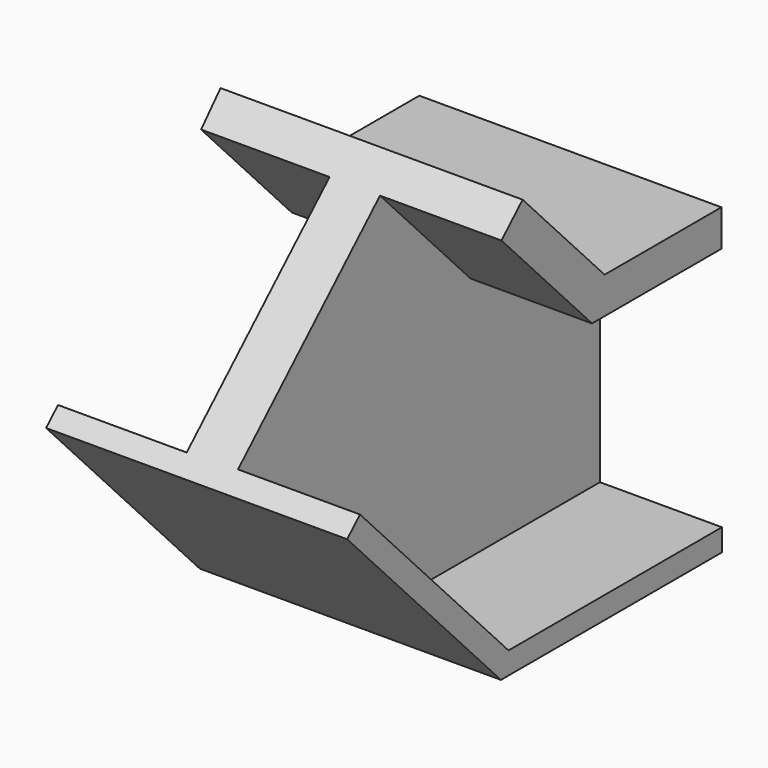
from build123d import *


with BuildPart() as f2:
    # F2: sweep along a path in F1
    with BuildLine(Plane.YZ) as f2_path:
        Line((0, 0), (-105.3527295589, 0))
        Line((-105.3527295589, 0), (-178.8869053125, 77.2800818086))
    # F0 (on Front) → F2 (sweep)
    with BuildSketch(Plane.XZ):
        Polygon((74.6333301067, 76.2975364923), (-75.6574571133, 76.2975364923), (-74.7817829251, 58.1192672253), (-10.8813606203, 58.1192672253), (-10.8813606203, -64.5200684667), (-74.8893618584, -64.5200684667), (-74.8893618584, -74.7613459826), (74.8893544078, -74.7613459826), (74.8893544078, -63.7519732118), (14.2097752541, -63.7519732118), (14.2097752541, 58.1192672253), (74.6333301067, 58.1192672253), align=None)
    sweep(path=f2_path.line, transition=Transition.RIGHT)


solid = f2.part
